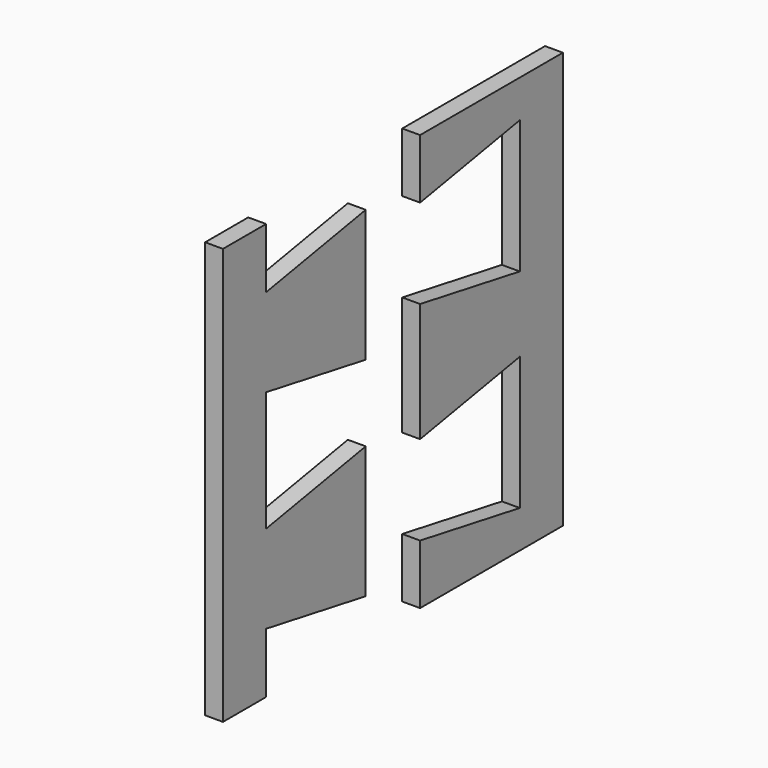
from build123d import *

# Parameters (mm, degrees)
F1_DEPTH = 3


with BuildPart() as f1:
    # F0 (on Right) → F1 (new body)
    with BuildSketch(Plane.YZ):
        Polygon((-41.416655, 0), (-32.358725, 0), (-32.358725, 10.1), (-11.428725, 6.409476), (-11.428725, 28.590524), (-32.358725, 24.9), (-32.358725, 35), (-32.358725, 45.1), (-11.428725, 41.409476), (-11.428725, 63.590524), (-32.358725, 59.9), (-32.358725, 70), (-41.416655, 70), align=None)
        Polygon((0, 10), (0, 0), (30, 0), (30, 70), (0, 70), (0, 60), (20.940275, 63.692335), (20.940275, 41.307665), (0, 45), (0, 35), (0, 25), (20.940275, 28.692335), (20.940275, 6.307665), align=None)
    extrude(amount=F1_DEPTH)


solid = f1.part
